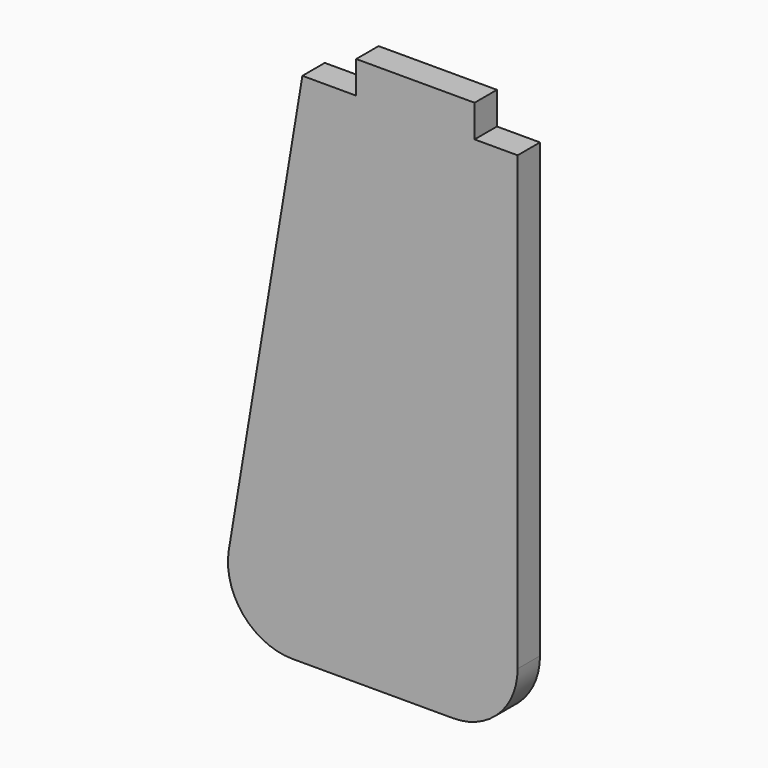
from build123d import *

# Parameters (mm, degrees)
F1_DEPTH = 16.51
F2_R     = 38.1
F3_R     = 38.1


with BuildPart() as f1:
    # F0 (on Front) → F1 (new body)
    with BuildSketch(Plane.XZ):
        Polygon((-0.055255, -445.639101), (-0.055255, -140.839101), (-25.455255, -140.839101), (-25.455255, -121.789101), (-95.305255, -121.789101), (-95.305255, -140.839101), (-127.055255, -140.827884), (-177.855255, -445.639101), align=None)
    extrude(amount=F1_DEPTH)

    # F2
    f2_edges = [f1.edges().sort_by_distance(p)[0] for p in [
        (-177.855255, -8.255, -445.639101),
    ]]
    fillet(f2_edges, radius=F2_R)

    # F3
    f3_edges = [f1.edges().sort_by_distance(p)[0] for p in [
        (-0.055255, -8.255, -445.639101),
    ]]
    fillet(f3_edges, radius=F3_R)


solid = f1.part
